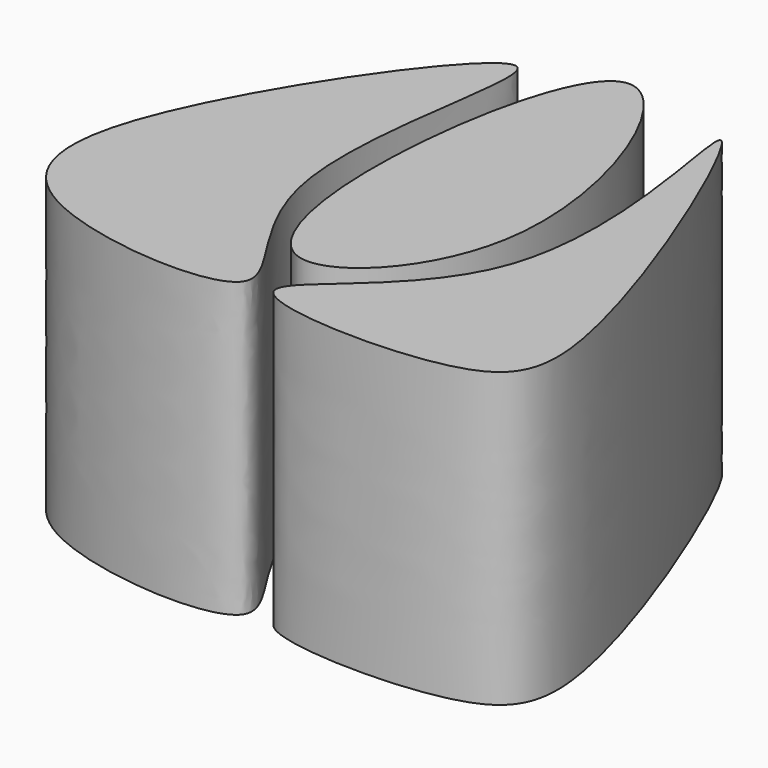
from build123d import *

# Parameters (mm, degrees)
F1_DEPTH = 25.4


with BuildPart() as f1:
    # F0 (on Top) → F1 (new body)
    with BuildSketch(Plane.XY):
        with BuildLine():
            add(Edge.make_bspline(
                [(-31.0153570026, 39.9120524526), (-33.2133179088, 40.7228936818), (-49.8271410166, 17.2184879313), (-46.2376026828, 2.7859893194), (-18.280714287, 0.9063337624), (-36.9119578396, 15.38586348), (-28.9806104677, 39.1614220037), (-31.0153570026, 39.9120524526)],
                knots=[0, 0, 0, 0, 0.240001118, 0.4100392402, 0.60089266, 0.7778206874, 1, 1, 1, 1], degree=3))
        make_face()
    extrude(amount=F1_DEPTH)


with BuildPart() as f1b:
    # F0 (on Top) → F1, piece 2 (new body)
    with BuildSketch(Plane.XY):
        with BuildLine():
            add(Edge.make_bspline(
                [(-23.2499018312, 3.8940126542), (-22.2872581851, 1.9286439757), (-4.447428919, 1.1797400498), (0.5220155642, 9.7511910213), (-19.5311825387, 56.9180070383), (-6.3010416193, 13.4723585869), (-24.2057776347, 5.8455638565), (-23.2499018312, 3.8940126542)],
                knots=[0, 0, 0, 0, 0.1884456642, 0.329963441, 0.5884461792, 0.8128791985, 1, 1, 1, 1], degree=3))
        make_face()
    extrude(amount=F1_DEPTH)


with BuildPart() as f1c:
    # F0 (on Top) → F1, piece 3 (new body)
    with BuildSketch(Plane.XY):
        with BuildLine():
            add(Edge.make_bspline(
                [(-23.3940221369, 42.6625534892), (-26.9326384115, 42.796026182), (-31.1379170635, 22.3295576829), (-26.4067608395, 3.3530047886), (-10.3184868084, 19.4153787719), (-19.6264569075, 42.5204450951), (-23.3940221369, 42.6625534892)],
                knots=[0, 0, 0, 0, 0.2665744533, 0.4911162528, 0.7161781433, 1, 1, 1, 1], degree=3))
        make_face()
    extrude(amount=F1_DEPTH)


solid = Compound([f1.part, f1b.part, f1c.part])
